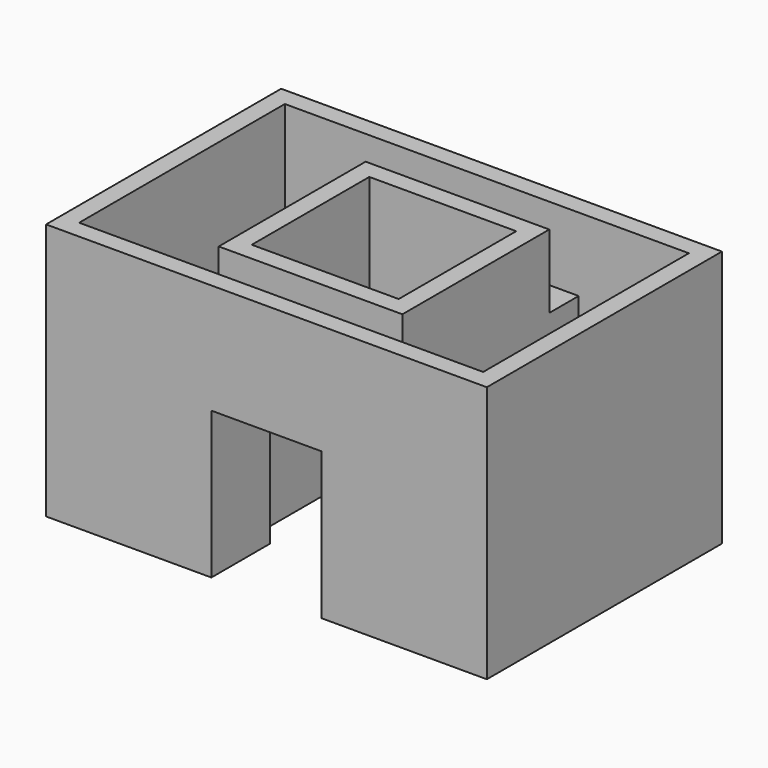
from build123d import *

# Parameters (mm, degrees)
F0_W     = 50.8
F0_H     = 25.4
F1_DEPTH = 88.9
F3_DEPTH = 76.2
F2_W     = 63.5
F2_H     = 12.7
F4_DEPTH = 25.4
F5_W     = 38.1
F5_H     = 50.8
F6_DEPTH = 110.744


with BuildPart() as f1:
    # F0 (on Top) → F1 (new body)
    with BuildSketch(Plane.XY):
        Polygon((-60.758203, -51.781196), (-9.958203, -51.781196), (-9.958203, -26.381196), (-9.958203, 24.418804), (-9.958203, 49.818804), (-60.758203, 49.818804), align=None)
        with Locations((15.441797, -39.081196)):
            Rectangle(F0_W, F0_H)
        Polygon((40.841797, -26.381196), (40.841797, -51.781196), (91.641797, -51.781196), (91.641797, 49.818804), (40.841797, 49.818804), (40.841797, 24.418804), align=None)
        with Locations((15.441797, 37.118804)):
            Rectangle(F0_W, F0_H)
    extrude(amount=F1_DEPTH)

    # F2 (on face) → F3 (cut)
    with BuildSketch(Plane.XY.offset(88.9)):
        Polygon((-54.408203, 43.468804), (-54.408203, -45.431196), (-16.308203, -45.431196), (-16.308203, -32.731196), (-16.308203, 30.768804), (-16.308203, 43.468804), align=None)
        Polygon((47.191797, -32.731196), (47.191797, -45.431196), (85.291797, -45.431196), (85.291797, 43.468804), (47.191797, 43.468804), (47.191797, 30.768804), align=None)
    extrude(amount=-F3_DEPTH, mode=Mode.SUBTRACT)

    # F2 (on face) → F4 (cut)
    with BuildSketch(Plane.XY.offset(88.9)):
        with Locations((15.441797, -39.081196)):
            Rectangle(F2_W, F2_H)
        with Locations((15.441797, 37.118804)):
            Rectangle(F2_W, F2_H)
    extrude(amount=-F4_DEPTH, mode=Mode.SUBTRACT)

    # F5 (on face) → F6 (cut)
    with BuildSketch(Plane.XZ.offset(51.781196)):
        with Locations((15.441797, 25.4)):
            Rectangle(F5_W, F5_H)
    extrude(amount=-F6_DEPTH, mode=Mode.SUBTRACT)


solid = f1.part
